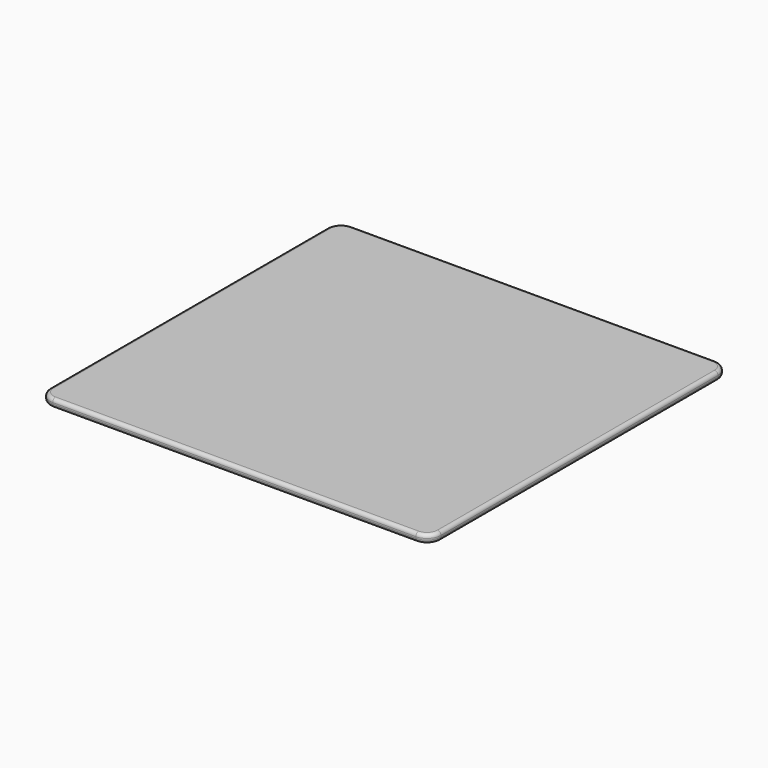
from build123d import *

# Parameters (mm, degrees)
SKETCH004_W  = 56
SKETCH004_H  = 53.6
PAD002_DEPTH = 1.2
FILLET002_R  = 2
FILLET003_R  = 0.5
PAD003_DEPTH = 3
FILLET004_R  = 1


with BuildPart() as part:
    # Sketch004 → Pad002 (new body)
    with BuildSketch(Plane.XY):
        Rectangle(SKETCH004_W, SKETCH004_H)
    extrude(amount=PAD002_DEPTH)

    # Fillet002
    fillet002_edges = [part.edges().sort_by_distance(p)[0] for p in [
        (-28, -26.8, 0.6),
        (-28, 26.8, 0.6),
        (28, -26.8, 0.6),
        (28, 26.8, 0.6),
    ]]
    fillet(fillet002_edges, radius=FILLET002_R)

    # Fillet003
    fillet003_edges = [part.edges().sort_by_distance(p)[0] for p in [
        (0, 26.8, 1.2),
        (-28, 0, 0),
    ]]
    fillet(fillet003_edges, radius=FILLET003_R)

    # Sketch005 (on Face9 of Fillet003) → Pad003 (join)
    with BuildSketch(Plane(origin=(0, 0, 0), x_dir=(1, 0, 0), z_dir=(0, 0, -1))):
        with BuildLine():
            ThreePointArc((1.5, 2), (0, 3.5), (-1.5, 2))
            Line((-1.5, 2), (-1.5, -2))
            ThreePointArc((-1.5, -2), (0, -3.5), (1.5, -2))
            Line((1.5, -2), (1.5, 2))
        make_face()
    extrude(amount=PAD003_DEPTH)

    # Fillet004
    fillet004_edges = [part.edges().sort_by_distance(p)[0] for p in [
        (-1.5, 0, -3),
    ]]
    fillet(fillet004_edges, radius=FILLET004_R)


solid = part.part
